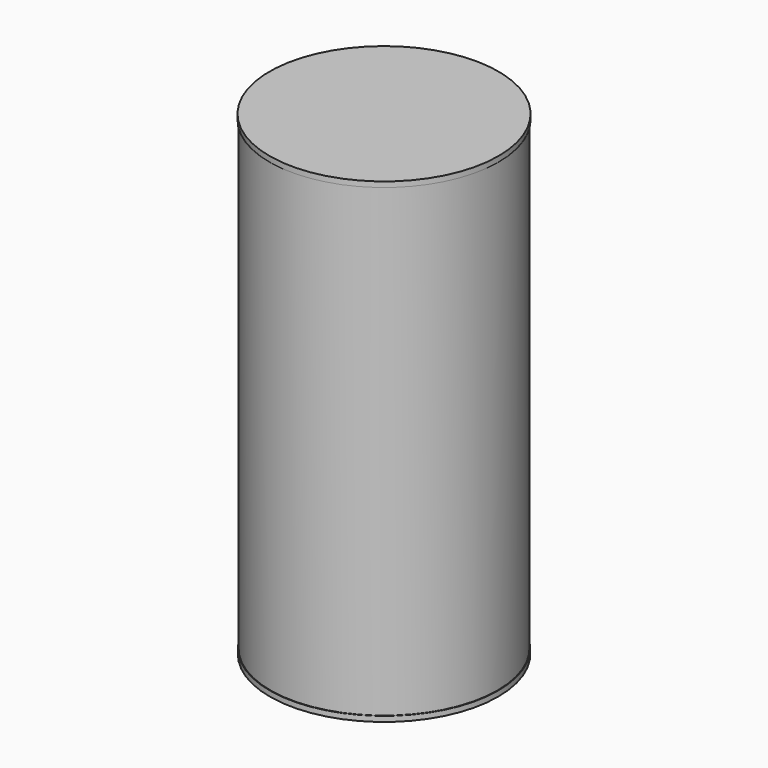
from build123d import *

# Parameters (mm, degrees)
F0_R     = 63.5
F0_R_2   = 60
F1_DEPTH = 260
F2_R     = 63.806252
F3_DEPTH = 3
F4_R     = 63.968913
F5_DEPTH = 3


with BuildPart() as f1:
    # F0 (on Top) → F1 (new body)
    with BuildSketch(Plane.XY):
        Circle(F0_R)
        Circle(F0_R_2, mode=Mode.SUBTRACT)
    extrude(amount=F1_DEPTH)

    # F2 (on face) → F3 (join)
    with BuildSketch(Plane(origin=(0, 0, 0), x_dir=(1, 0, 0), z_dir=(0, 0, -1))):
        Circle(F2_R)
    extrude(amount=F3_DEPTH)

    # F4 (on face) → F5 (join)
    with BuildSketch(Plane.XY.offset(260)):
        Circle(F4_R)
    extrude(amount=F5_DEPTH)


solid = f1.part
